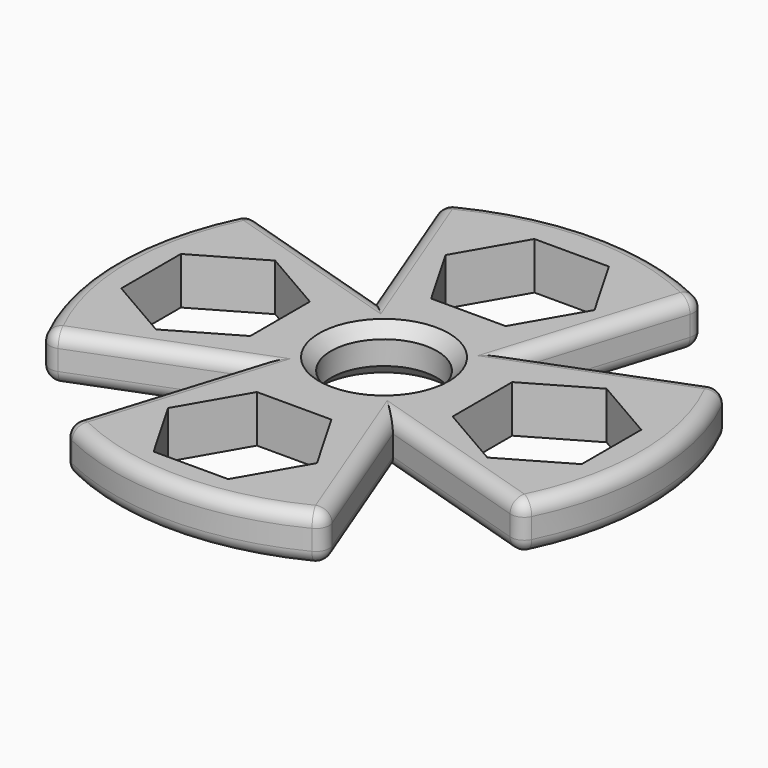
from build123d import *

# Parameters (mm, degrees)
F0_R     = 40
F0_R_2   = 7.875
F1_DEPTH = 7
F3_DEPTH = 7.001
F5_DEPTH = 7.001
F6_R     = 2
F7_SIZE  = 1.75


with BuildPart() as f1:
    # F0 (on Top) → F1 (new body)
    with BuildSketch(Plane.XY):
        Circle(F0_R)
        Circle(F0_R_2, mode=Mode.SUBTRACT)
    extrude(amount=F1_DEPTH)

    # F2 (on Top) → F3 (cut, through all)
    with BuildSketch(Plane.XY):
        Polygon((-24.9999994913, -11.056257655), (-15.4249997457, -5.528128387), (-15.4250002543, 5.528129268), (-25.0000005087, 11.056257655), (-34.5750002543, 5.528128387), (-34.5749997457, -5.528129268), align=None)
        Polygon((-6.0472384723, -16.0265521064), (-11.5753668593, -25.6015523607), (-6.0472375913, -35.1765521064), (5.0090200637, -35.1765515977), (10.5371484507, -25.6015513433), (5.0090191826, -16.0265515977), align=None)
        Polygon((15.507442902, -6.6487903244), (25.0824431564, -12.1769187113), (34.657442902, -6.6487894433), (34.6574423934, 4.4074682117), (25.082442139, 9.9355965986), (15.5074423934, 4.4074673306), align=None)
        Polygon((6.12968112, 14.90589105), (11.657809507, 24.4808913044), (6.129680239, 34.05589105), (-4.926577416, 34.0558905413), (-10.454705803, 24.480890287), (-4.9265765349, 14.9058905413), align=None)
    extrude(amount=F3_DEPTH, mode=Mode.SUBTRACT)

    # F4 (on Top) → F5 (cut, through all)
    with BuildSketch(Plane.XY):
        Polygon((-10.4367481545, 11.3855423406), (-19.5796824992, 35.0191704929), (-58.221526444, 26.2212492526), align=None)
        Polygon((-35.0191704929, -19.5796824992), (-26.2212492526, -58.221526444), (-11.3855423406, -10.4367481545), align=None)
        Polygon((19.5796824992, -35.0191704929), (58.221526444, -26.2212492526), (10.4367481545, -11.3855423406), align=None)
        Polygon((35.0191704929, 19.5796824992), (26.2212492526, 58.221526444), (11.3855423406, 10.4367481545), align=None)
    extrude(amount=F5_DEPTH, mode=Mode.SUBTRACT)

    # F6
    f6_edges = [f1.edges().sort_by_distance(p)[0] for p in [
        (-22.801047, 15.224278, 7),
        (-39.999091, -0.269736, 7),
        (-23.145299, -14.986142, 7),
        (-15.224278, -22.801047, 7),
        (14.986142, -23.145299, 7),
        (22.801047, -15.224278, 7),
        (23.145299, 14.986142, 7),
        (39.999091, 0.269736, 7),
        (15.224278, 22.801047, 7),
        (-0.269736, 39.999091, 7),
        (-14.986142, 23.145299, 7),
        (-39.999091, -0.269736, 0),
        (-22.801047, 15.224278, 0),
        (-14.986142, 23.145299, 0),
        (-0.269736, 39.999091, 0),
        (15.224278, 22.801047, 0),
        (23.145299, 14.986142, 0),
        (39.999091, 0.269736, 0),
        (22.801047, -15.224278, 0),
        (14.986142, -23.145299, 0),
        (0.269736, -39.999091, 0),
        (-15.224278, -22.801047, 0),
        (-23.145299, -14.986142, 0),
        (0.269736, -39.999091, 7),
        (19.535536, -34.905055, 3.5),
        (-19.063013, -35.165346, 3.5),
        (-34.905055, -19.535536, 3.5),
        (-35.165346, 19.063013, 3.5),
        (-19.535536, 34.905055, 3.5),
        (19.063013, 35.165346, 3.5),
        (34.905055, 19.535536, 3.5),
        (35.165346, -19.063013, 3.5),
    ]]
    fillet(f6_edges, radius=F6_R)

    # F7
    f7_edges = [f1.edges().sort_by_distance(p)[0] for p in [
        (-7.875, 0, 7),
        (-7.875, 0, 0),
    ]]
    chamfer(f7_edges, length=F7_SIZE)


solid = f1.part
